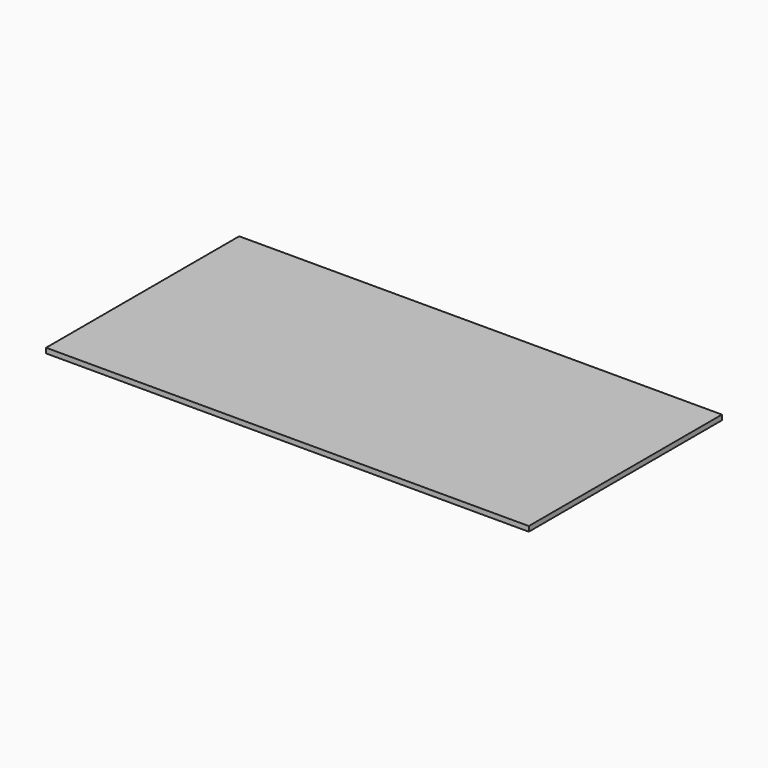
from build123d import *

# Parameters (mm, degrees)
SKETCH_W  = 1219.2
SKETCH_H  = 609.6
PAD_DEPTH = 12.7


with BuildPart() as part:
    # Sketch → Pad (new body)
    with BuildSketch(Plane.XY):
        with Locations((609.6, 304.8)):
            Rectangle(SKETCH_W, SKETCH_H)
    extrude(amount=PAD_DEPTH)


solid = part.part
